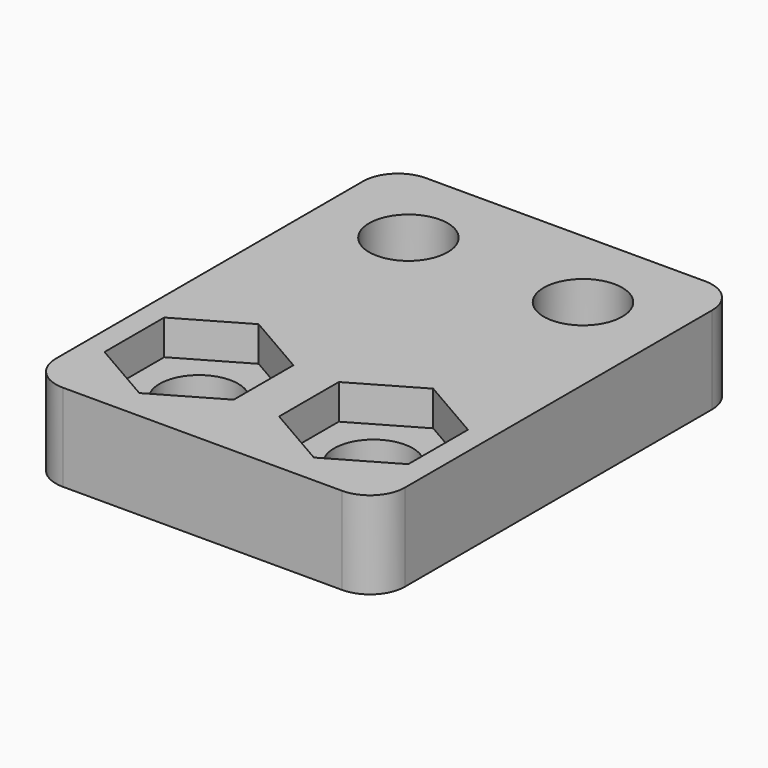
from build123d import *

# Parameters (mm, degrees)
F0_R     = 2.25
F1_DEPTH = 5
F2_DEPTH = 3


with BuildPart() as f1:
    # F0 (on Top) → F1 (new body)
    with BuildSketch(Plane.XY):
        with BuildLine():
            ThreePointArc((0, 2), (0.585786, 0.585786), (2, 0))
            Line((2, 0), (18, 0))
            ThreePointArc((18, 0), (19.414214, 0.585786), (20, 2))
            Line((20, 2), (20, 24))
            ThreePointArc((20, 24), (19.414214, 25.414214), (18, 26))
            Line((18, 26), (2, 26))
            ThreePointArc((2, 26), (0.585786, 25.414214), (0, 24))
            Line((0, 24), (0, 2))
        make_face()
        Polygon((5, 1.727608), (1.3, 3.863804), (1.3, 8.136196), (5, 10.272392), (8.7, 8.136196), (8.7, 3.863804), align=None, mode=Mode.SUBTRACT)
        Polygon((15, 1.727608), (11.3, 3.863804), (11.3, 8.136196), (15, 10.272392), (18.7, 8.136196), (18.7, 3.863804), align=None, mode=Mode.SUBTRACT)
        with Locations((5, 21)):
            Circle(F0_R, mode=Mode.SUBTRACT)
        with Locations((15, 21)):
            Circle(F0_R, mode=Mode.SUBTRACT)
    extrude(amount=F1_DEPTH)

    # F0 (on Top) → F2 (join)
    with BuildSketch(Plane.XY):
        Polygon((1.3, 8.136196), (1.3, 3.863804), (5, 1.727608), (8.7, 3.863804), (8.7, 8.136196), (5, 10.272392), align=None)
        with Locations((5, 6)):
            Circle(F0_R, mode=Mode.SUBTRACT)
        Polygon((11.3, 8.136196), (11.3, 3.863804), (15, 1.727608), (18.7, 3.863804), (18.7, 8.136196), (15, 10.272392), align=None)
        with Locations((15, 6)):
            Circle(F0_R, mode=Mode.SUBTRACT)
    extrude(amount=F2_DEPTH)


solid = f1.part
